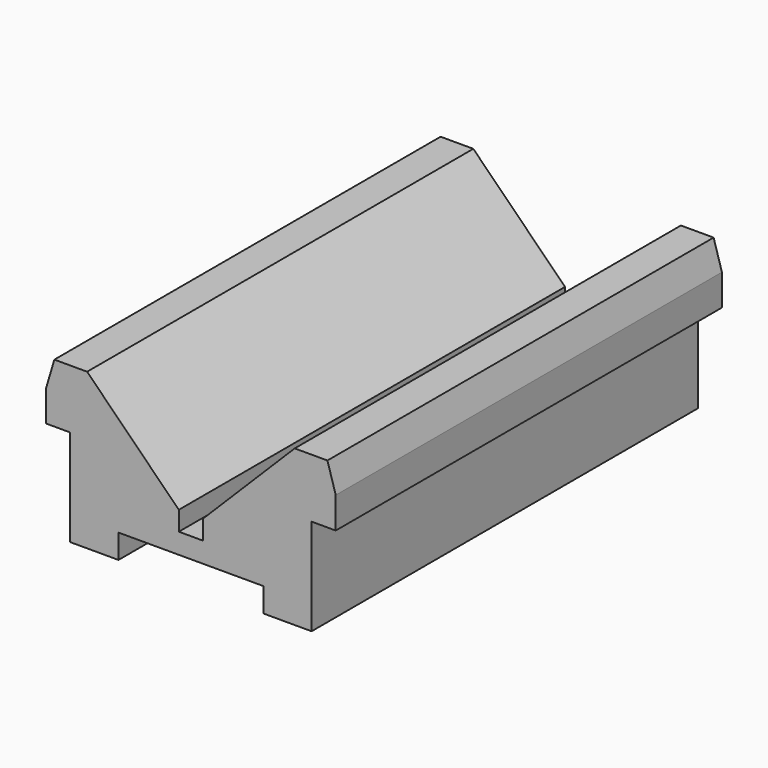
from build123d import *

# Parameters (mm, degrees)
F1_DEPTH = 100


with BuildPart() as f1:
    # F0 (on Front) → F1 (new body)
    with BuildSketch(Plane.XZ):
        Polygon((2.5, 25.782608), (0, 25.782608), (-2.5, 25.782608), (-2.5, 29.782608), (-21.5, 48.782608), (-28.282609, 48.782608), (-30, 43.033646), (-30, 36.565646), (-25, 36.565646), (-25, 16.565646), (-15, 16.565646), (-15, 21.565646), (0, 21.565646), (15, 21.565646), (15, 16.565646), (25, 16.565646), (25, 36.565646), (30, 36.565646), (30, 43.033646), (28.282609, 48.782608), (21.5, 48.782608), (2.5, 29.782608), align=None)
    extrude(amount=F1_DEPTH)


solid = f1.part
